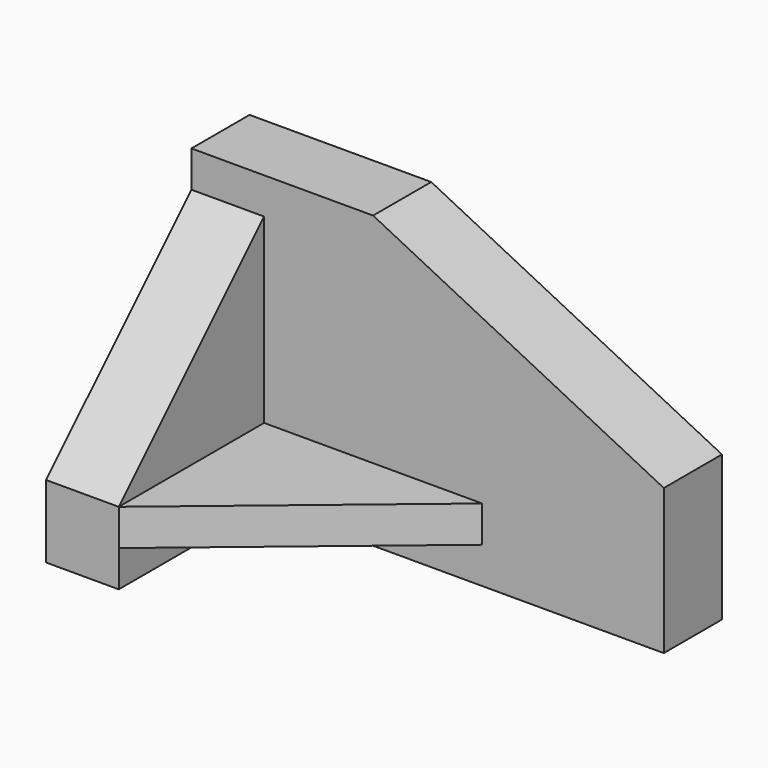
from build123d import *

# Parameters (mm, degrees)
F1_DEPTH = 10
F0_W     = 30
F0_H     = 5
F2_DEPTH = 35
F4_DEPTH = 10.001
F6_DEPTH = 10.001


with BuildPart() as f1:
    # F0 (on Front) → F1 (new body)
    with BuildSketch(Plane.XZ):
        Polygon((-7.5, 20), (-32.5, 20), (-32.5, 15), (-22.5, 15), (-22.5, -10), (7.5, -10), (7.5, -15), (-22.5, -15), (-22.5, -20), (32.5, -20), (32.5, 0), align=None)
    extrude(amount=F1_DEPTH)

    # F0 (on Front) → F2 (join)
    with BuildSketch(Plane.XZ):
        Polygon((-22.5, 15), (-32.5, 15), (-32.5, -20), (-22.5, -20), (-22.5, -15), (-22.5, -10), align=None)
        with Locations((-7.5, -12.5)):
            Rectangle(F0_W, F0_H)
    extrude(amount=F2_DEPTH)

    # F3 (on face) → F4 (cut, through all)
    with BuildSketch(Plane.XY.offset(-10)):
        Polygon((7.5, -10), (-22.5, -35), (7.5, -35), align=None)
    extrude(amount=-F4_DEPTH, mode=Mode.SUBTRACT)

    # F5 (on face) → F6 (cut, through all)
    with BuildSketch(Plane.YZ.offset(-22.5)):
        Polygon((-35, 15), (-35, -10), (-10, 15), align=None)
    extrude(amount=-F6_DEPTH, mode=Mode.SUBTRACT)


solid = f1.part
